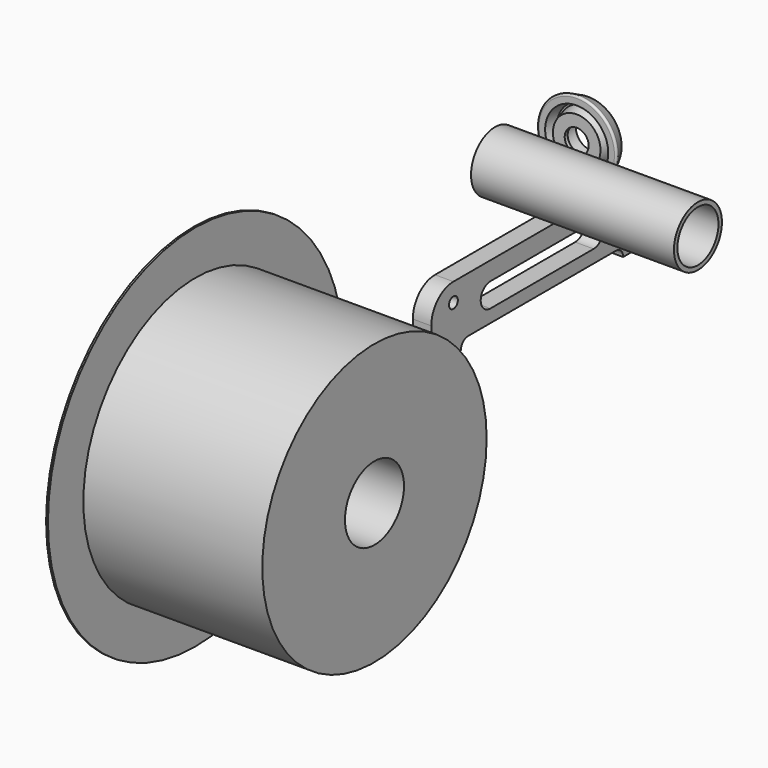
from build123d import *

# Parameters (mm, degrees)
F0_R     = 16.25
F0_R_2   = 13.9
F2_DEPTH = 110
F0_R_3   = 100
F0_R_4   = 76
F0_R_5   = 20
F3_DEPTH = 1
F4_DEPTH = 98
F0_R_6   = 3
F5_DEPTH = 10


with BuildPart() as f1:
    # F0 (on Right) → F1 (revolve)
    with BuildSketch(Plane.YZ):
        with BuildLine():
            ThreePointArc((20.464217, 33.141372), (19.487489, 33.103372), (19.009769, 32.250598))
            Line((19.009769, 32.250598), (19.009769, 28.883391))
            Line((19.009769, 28.883391), (25.009769, 27.275695))
            Line((25.009769, 27.275695), (25.009769, 26.275695))
            Line((25.009769, 26.275695), (19.009769, 24.668))
            Line((19.009769, 24.668), (19.009769, 18.275695))
            Line((19.009769, 18.275695), (21.009769, 18.275695))
            Line((21.009769, 18.275695), (21.009769, 20.275695))
            Line((21.009769, 20.275695), (29.009769, 20.275695))
            Line((29.009769, 20.275695), (29.009769, 25.719429))
            ThreePointArc((29.009769, 25.719429), (28.27364, 28.330828), (26.282008, 30.173296))
            Line((26.282008, 30.173296), (20.464217, 33.141372))
        make_face()
    revolve(axis=Axis((0, 32.803678, 11.775695), (0, 1, 0)))


with BuildPart() as f2:
    # F0 (on Right) → F2 (new body)
    with BuildSketch(Plane.YZ):
        with Locations((-36.346156, 24.846805)):
            Circle(F0_R)
        with Locations((-36.346156, 24.846805)):
            Circle(F0_R_2, mode=Mode.SUBTRACT)
    extrude(amount=F2_DEPTH)


with BuildPart() as f3:
    # F0 (on Right) → F3 (new body)
    with BuildSketch(Plane.YZ):
        with Locations((-240.499712, -23.46017)):
            Circle(F0_R_3)
        with Locations((-240.499712, -23.46017)):
            Circle(F0_R_4, mode=Mode.SUBTRACT)
        with Locations((-240.499712, -23.46017)):
            Circle(F0_R_4)
        with Locations((-240.499712, -23.46017)):
            Circle(F0_R_5, mode=Mode.SUBTRACT)
    extrude(amount=F3_DEPTH)


with BuildPart() as f4:
    # F0 (on Right) → F4 (new body)
    with BuildSketch(Plane.YZ):
        with Locations((-240.499712, -23.46017)):
            Circle(F0_R_4)
        with Locations((-240.499712, -23.46017)):
            Circle(F0_R_5, mode=Mode.SUBTRACT)
    extrude(amount=F4_DEPTH)


with BuildPart() as f5:
    # F0 (on Right) → F5 (new body)
    with BuildSketch(Plane.YZ):
        with BuildLine():
            Line((42.978356, -12.88617), (-77.021644, -12.88617))
            ThreePointArc((-77.021644, -12.88617), (-87.628245, -17.279569), (-92.021644, -27.88617))
            Line((-92.021644, -27.88617), (-92.021644, -47.88617))
            Line((-92.021644, -47.88617), (-72.021644, -47.88617))
            ThreePointArc((-72.021644, -47.88617), (-70.557177, -44.350637), (-67.021644, -42.88617))
            Line((-67.021644, -42.88617), (32.978356, -42.88617))
            ThreePointArc((32.978356, -42.88617), (36.51389, -44.350637), (37.978356, -47.88617))
            Line((37.978356, -47.88617), (57.978356, -47.88617))
            Line((57.978356, -47.88617), (57.978356, -27.88617))
            ThreePointArc((57.978356, -27.88617), (53.584958, -17.279569), (42.978356, -12.88617))
        make_face()
        with BuildLine():
            Line((-52.021644, -22.88617), (17.978356, -22.88617))
            ThreePointArc((17.978356, -22.88617), (24.478356, -29.38617), (17.978356, -35.88617))
            Line((17.978356, -35.88617), (-52.021644, -35.88617))
            ThreePointArc((-52.021644, -35.88617), (-58.521644, -29.38617), (-52.021644, -22.88617))
        make_face(mode=Mode.SUBTRACT)
        with Locations((-77.021644, -22.88617)):
            Circle(F0_R_6, mode=Mode.SUBTRACT)
        with Locations((42.978356, -22.88617)):
            Circle(F0_R_6, mode=Mode.SUBTRACT)
    extrude(amount=F5_DEPTH)


solid = Compound([f1.part, f2.part, f3.part, f4.part, f5.part])
